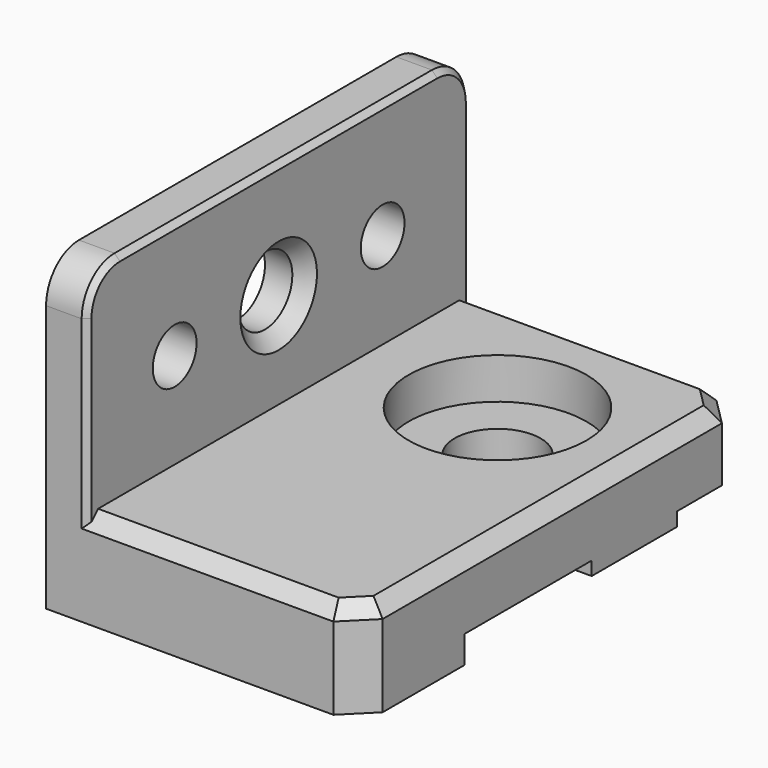
from build123d import *

# Parameters (mm, degrees)
CYLINDER032_R         = 3.15
CYLINDER032_DEPTH     = 10
CYLINDER033_R         = 6.5
CYLINDER033_DEPTH     = 3
CYLINDER034_R         = 2.5
CYLINDER034_DEPTH     = 10
CYLINDER036_R         = 2
CYLINDER036_DEPTH     = 14
CYLINDER037_R         = 2
CYLINDER037_DEPTH     = 14
BOX059_W              = 3
BOX059_H              = 35
BOX059_DEPTH          = 20.5
FILLET005015029_R     = 3
CHAMFER010015007_SIZE = 0.4
BOX061_W              = 23
BOX061_H              = 9.5
BOX061_DEPTH          = 2
CHAMFER010015004_SIZE = 2
BOX062_W              = 23
BOX062_H              = 7.8
BOX062_DEPTH          = 1
BOX060_W              = 23
BOX060_H              = 35
BOX060_DEPTH          = 5
CHAMFER010015003_SIZE = 2
CHAMFER010015005_SIZE = 2
CHAMFER010015006_SIZE = 1
CHAMFER010015008_SIZE = 1


with BuildPart() as cylinder032:
    # Cylinder032 → Cylinder032 (new body)
    with BuildSketch(Plane(origin=(59, 11, -1.5), x_dir=(1, 0, 0), z_dir=(0, 0, 1))):
        Circle(CYLINDER032_R)
    extrude(amount=CYLINDER032_DEPTH)


with BuildPart() as fusion001021004009015013002:
    # Cylinder033 → Cylinder033 (new body)
    with BuildSketch(Plane(origin=(59, 11, 1.5), x_dir=(1, 0, 0), z_dir=(0, 0, 1))):
        Circle(CYLINDER033_R)
    extrude(amount=CYLINDER033_DEPTH)

    # Fusion001021004009015013002: union Cylinder032
    add(cylinder032.part)


with BuildPart() as cylinder034:
    # Cylinder034 → Cylinder034 (new body)
    with BuildSketch(Plane(origin=(42.5, 3.5, 11.5), x_dir=(0, 0, -1), z_dir=(1, 0, 0))):
        Circle(CYLINDER034_R)
    extrude(amount=CYLINDER034_DEPTH)


with BuildPart() as cylinder036:
    # Cylinder036 → Cylinder036 (new body)
    with BuildSketch(Plane(origin=(37, 13, 11.5), x_dir=(0, 0, -1), z_dir=(1, 0, 0))):
        Circle(CYLINDER036_R)
    extrude(amount=CYLINDER036_DEPTH)


with BuildPart() as fusion001021004009015013004:
    # Cylinder037 → Cylinder037 (new body)
    with BuildSketch(Plane(origin=(37, -6, 11.5), x_dir=(0, 0, -1), z_dir=(1, 0, 0))):
        Circle(CYLINDER037_R)
    extrude(amount=CYLINDER037_DEPTH)

    # Fusion001021004009015013004: union Cylinder034, Cylinder036
    add(cylinder034.part)
    add(cylinder036.part)


with BuildPart() as chamfer010015007:
    # Box059 → Box059 (new body)
    with BuildSketch(Plane(origin=(46, -14, -0.5), x_dir=(1, 0, 0), z_dir=(0, 0, 1))):
        with Locations((1.5, 17.5)):
            Rectangle(BOX059_W, BOX059_H)
    extrude(amount=BOX059_DEPTH)

    # Fillet005015029
    fillet005015029_edges = [chamfer010015007.edges().sort_by_distance(p)[0] for p in [
        (47.5, -14, 20),
        (47.5, 21, 20),
    ]]
    fillet(fillet005015029_edges, radius=FILLET005015029_R)

    # Chamfer010015007
    chamfer010015007_edges = [chamfer010015007.edges().sort_by_distance(p)[0] for p in [
        (49, -14, 8.25),
        (49, -13.12132, 19.12132),
        (49, 3.5, 20),
        (49, 21, 8.25),
        (49, 20.12132, 19.12132),
    ]]
    chamfer(chamfer010015007_edges, length=CHAMFER010015007_SIZE)


with BuildPart() as chamfer010015004:
    # Box061 → Box061 (new body)
    with BuildSketch(Plane(origin=(46, -14, -2.5), x_dir=(1, 0, 0), z_dir=(0, 0, 1))):
        with Locations((11.5, 4.75)):
            Rectangle(BOX061_W, BOX061_H)
    extrude(amount=BOX061_DEPTH)

    # Chamfer010015004
    chamfer010015004_edges = [chamfer010015004.edges().sort_by_distance(p)[0] for p in [
        (69, -14, -1.5),
    ]]
    chamfer(chamfer010015004_edges, length=CHAMFER010015004_SIZE)


with BuildPart() as cube060:
    # Box062 → Box062 (new body)
    with BuildSketch(Plane(origin=(46, 7.1, -1.5), x_dir=(1, 0, 0), z_dir=(0, 0, 1))):
        with Locations((11.5, 3.9)):
            Rectangle(BOX062_W, BOX062_H)
    extrude(amount=BOX062_DEPTH)


with BuildPart() as side_mount:
    # Box060 → Box060 (new body)
    with BuildSketch(Plane(origin=(46, -14, -0.5), x_dir=(1, 0, 0), z_dir=(0, 0, 1))):
        with Locations((11.5, 17.5)):
            Rectangle(BOX060_W, BOX060_H)
    extrude(amount=BOX060_DEPTH)

    # Chamfer010015003
    chamfer010015003_edges = [side_mount.edges().sort_by_distance(p)[0] for p in [
        (69, -14, 2),
    ]]
    chamfer(chamfer010015003_edges, length=CHAMFER010015003_SIZE)

    # Chamfer010015005
    chamfer010015005_edges = [side_mount.edges().sort_by_distance(p)[0] for p in [
        (69, 21, 2),
    ]]
    chamfer(chamfer010015005_edges, length=CHAMFER010015005_SIZE)

    # Chamfer010015006
    chamfer010015006_edges = [side_mount.edges().sort_by_distance(p)[0] for p in [
        (69, 3.5, 4.5),
        (68, 20, 4.5),
        (56.5, 21, 4.5),
        (56.5, -14, 4.5),
        (68, -13, 4.5),
    ]]
    chamfer(chamfer010015006_edges, length=CHAMFER010015006_SIZE)

    # Fusion001021004009015013005: union Chamfer010015007, Chamfer010015004, Cube060
    add(chamfer010015007.part)
    add(chamfer010015004.part)
    add(cube060.part)

    # Cut019003009: cut Fusion001021004009015013004
    add(fusion001021004009015013004.part, mode=Mode.SUBTRACT)

    # Chamfer010015008
    chamfer010015008_edges = [side_mount.edges().sort_by_distance(p)[0] for p in [
        (49, 3.5, 14),
    ]]
    chamfer(chamfer010015008_edges, length=CHAMFER010015008_SIZE)

    # Cut019003010: cut Fusion001021004009015013002
    add(fusion001021004009015013002.part, mode=Mode.SUBTRACT)


solid = side_mount.part
